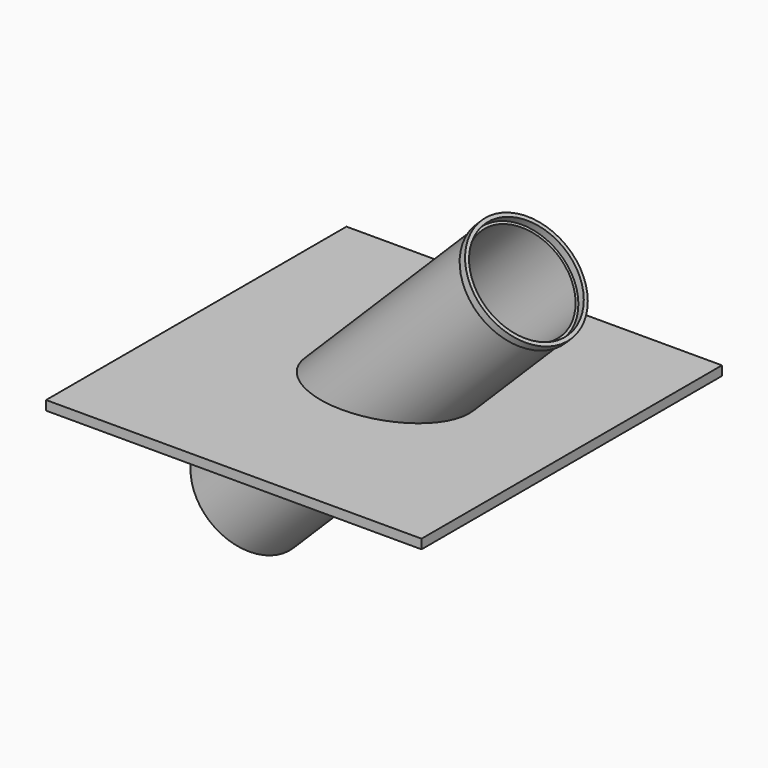
from build123d import *

# Parameters (mm, degrees)
F0_R     = 19.05
F0_R_2   = 17.4625
F1_DEPTH = 127
F2_DEPTH = 3.175
F4_ANGLE = 45
F5_R     = 19.6200089016
F5_R_2   = 19.05
F5_R_3   = 18.3457518045
F6_DEPTH = 2.54


with BuildPart() as f1:
    # F0 (on Top) → F1 (new body)
    with BuildSketch(Plane.XY):
        Circle(F0_R)
        Circle(F0_R_2, mode=Mode.SUBTRACT)
    extrude(amount=F1_DEPTH)


with BuildPart() as f2:
    # F0 (on Top) → F2 (new body)
    with BuildSketch(Plane.XY):
        Polygon((61.8521502989, 63.4786152288), (-1.6478497011, 63.4786152288), (-65.1478497011, 63.4786152288), (-65.1478497011, -63.5213847712), (61.8521502989, -63.5213847712), align=None)
        Circle(F0_R, mode=Mode.SUBTRACT)
    extrude(amount=-F2_DEPTH)


with BuildPart() as f1_1:
    # F3: moved
    add(f1.part.moved(Location((0, 0, -65.0875))))


with BuildPart() as f1_2:
    # F4: moved
    add(f1_1.part.rotate(Axis((-0.8239248506, 31.7393076144, 0), (-0.025950389, 0.9996632319, 0)), F4_ANGLE))

    # F5 (on face) → F6 (join)
    with BuildSketch(Plane(origin=(43.7640053064, 1.1360755556, 43.7787485902), x_dir=(0.707344832, -0.0183373431, -0.7066307597), z_dir=(0.7068686502, 0.018349696, 0.7071067812))):
        Circle(F5_R)
        Circle(F5_R_2, mode=Mode.SUBTRACT)
        Circle(F5_R_2)
        Circle(F5_R_3, mode=Mode.SUBTRACT)
    extrude(amount=F6_DEPTH)


solid = Compound([f2.part, f1_2.part])
